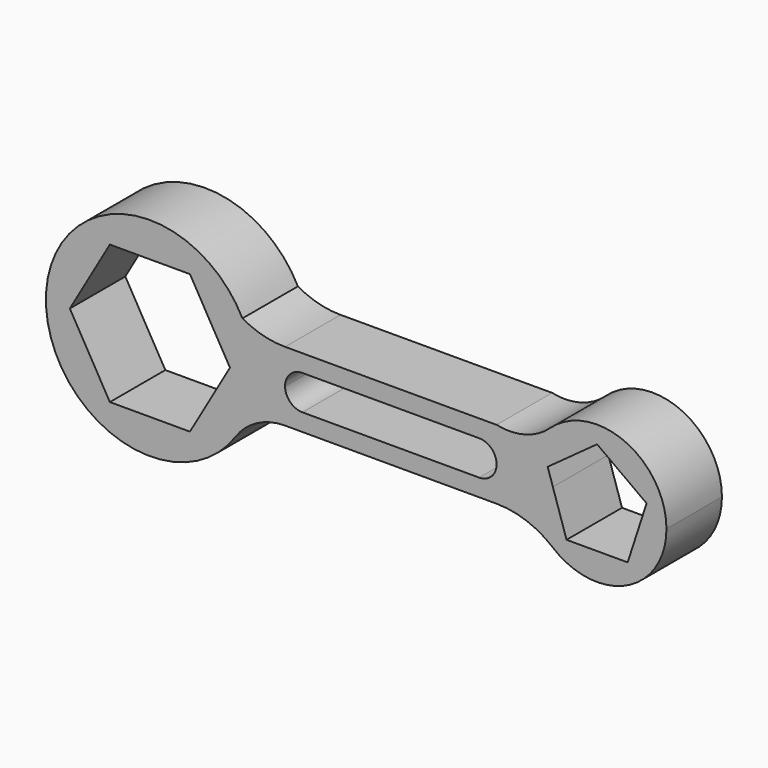
from build123d import *

# Parameters (mm, degrees)
F1_DEPTH = 508


with BuildPart() as f1:
    # F0 (on Front) → F1 (new body)
    with BuildSketch(Plane.XZ):
        with BuildLine():
            ThreePointArc((627.071148, -432.926986), (727.486156, -226.733087), (762, 0))
            ThreePointArc((762, 0), (740.70408, 178.889536), (678.006651, 347.780077))
            ThreePointArc((678.006651, 347.780077), (-760.383387, 49.60953), (627.071148, -432.926986))
        make_face()
        Polygon((-586.587873, 0), (-293.293937, 508), (293.293937, 508), (586.587873, 0), (293.293937, -508), (-293.293937, -508), align=None, mode=Mode.SUBTRACT)
        with BuildLine():
            Line((990.35124, 11.714339), (990.35124, -242.285661))
            Line((990.35124, -242.285661), (2540.197712, -242.285661))
            ThreePointArc((2540.197712, -242.285661), (2759.215373, -280.590817), (2952.230834, -390.958622))
            ThreePointArc((2952.230834, -390.958622), (2813.860961, -209.610548), (2768.792984, 14.001221))
            Line((2768.792984, 14.001221), (2540.197712, 12.530956))
            ThreePointArc((2540.197712, 12.530956), (2503.212536, -77.878292), (2412.977153, -115.285661))
            Line((2412.977153, -115.285661), (1117.572118, -115.285661))
            ThreePointArc((1117.572118, -115.285661), (1027.626737, -78.166405), (990.35124, 11.714339))
        make_face()
        with BuildLine():
            Line((2540.197712, 266.530956), (990.35124, 265.714339))
            Line((990.35124, 265.714339), (990.35124, 11.714339))
            ThreePointArc((990.35124, 11.714339), (1027.628253, 101.596212), (1117.576018, 138.713948))
            Line((1117.576018, 138.713948), (2412.977851, 138.713948))
            ThreePointArc((2412.977851, 138.713948), (2502.634698, 101.883402), (2540.197712, 12.530956))
            Line((2540.197712, 12.530956), (2540.197712, 266.530956))
        make_face()
        with BuildLine():
            ThreePointArc((678.006651, 347.780077), (740.70408, 178.889536), (762, 0))
            ThreePointArc((762, 0), (727.486156, -226.733087), (627.071148, -432.926986))
            ThreePointArc((627.071148, -432.926986), (785.219246, -292.840809), (990.35124, -242.285661))
            Line((990.35124, -242.285661), (990.35124, 11.714339))
            Line((990.35124, 11.714339), (990.35124, 265.714339))
            ThreePointArc((990.35124, 265.714339), (828.867397, 286.5313), (678.006651, 347.780077))
        make_face()
        with BuildLine():
            ThreePointArc((2932.153652, 373.390832), (2749.220714, 272.112458), (2540.197712, 266.530956))
            Line((2540.197712, 266.530956), (2540.197712, 12.530956))
            Line((2540.197712, 12.530956), (2768.792984, 14.001221))
            ThreePointArc((2768.792984, 14.001221), (2814.13468, 210.213767), (2932.153652, 373.390832))
        make_face()
        with BuildLine():
            ThreePointArc((3784.6, 0), (3480.420086, 465.318571), (2932.153652, 373.390832))
            ThreePointArc((2932.153652, 373.390832), (2814.13468, 210.213767), (2768.792984, 14.001221))
            ThreePointArc((2768.792984, 14.001221), (2813.860961, -209.610548), (2952.230834, -390.958622))
            ThreePointArc((2952.230834, -390.958622), (3492.568127, -459.806229), (3784.6, 0))
        make_face()
        Polygon((3638.952533, 117.735475), (3500.546181, -308.235475), (3052.653819, -308.235475), (2952.502042, 0), (2914.247467, 117.735475), (3276.6, 381), align=None, mode=Mode.SUBTRACT)
    extrude(amount=F1_DEPTH)


solid = f1.part
